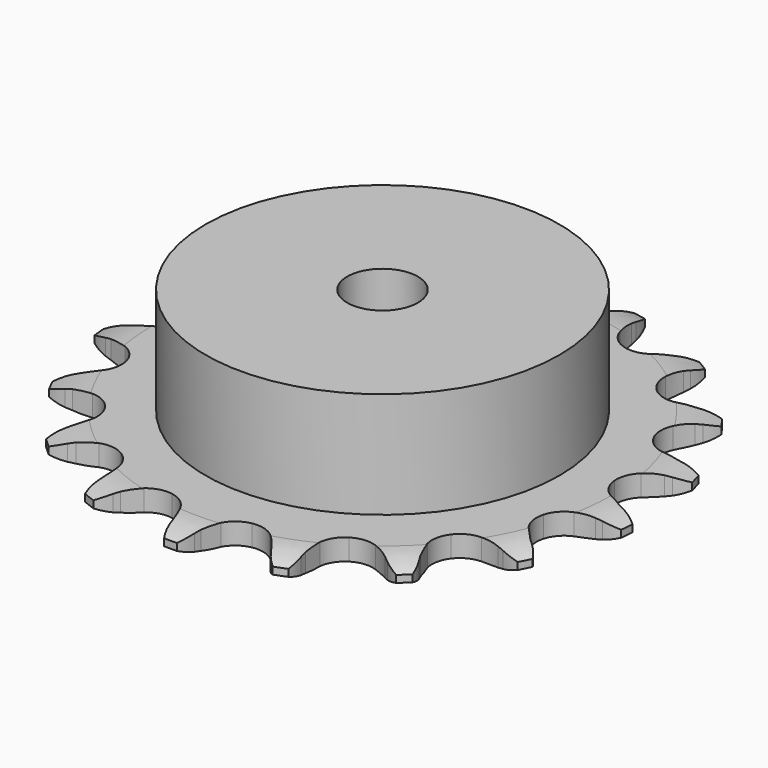
from build123d import *

# Parameters (mm, degrees)
PAD_DEPTH         = 3
SKETCH001_R       = 25
PAD001_DEPTH      = 18
SKETCH002_R       = 5
POCKET_DEPTH      = 0.001
POCKET_DEPTH_BACK = -18.001


with BuildPart() as part:
    # Sprocket → Pad (new body)
    with BuildSketch(Plane.XY):
        with BuildLine():
            ThreePointArc((-7.084855, 37.900625), (-5.741195, 36.693395), (-4.786586, 35.159919))
            Line((-4.786586, 35.159919), (-4.418937, 34.327275))
            ThreePointArc((-4.418937, 34.327275), (-3.818923, 33.174659), (-3.07633, 32.108311))
            ThreePointArc((-3.07633, 32.108311), (-1.707536, 31.015502), (0, 30.625439))
            ThreePointArc((0, 30.625439), (1.707536, 31.015502), (3.07633, 32.108311))
            ThreePointArc((3.07633, 32.108311), (3.818923, 33.174659), (4.418937, 34.327275))
            Line((4.418937, 34.327275), (4.786586, 35.159919))
            ThreePointArc((4.786586, 35.159919), (5.741195, 36.693395), (7.084855, 37.900625))
            ThreePointArc((7.084855, 37.900625), (7.901678, 36.289531), (8.23787, 34.514763))
            Line((8.23787, 34.514763), (8.279906, 33.605535))
            ThreePointArc((8.279906, 33.605535), (8.423029, 32.314002), (8.730268, 31.051407))
            ThreePointArc((8.730268, 31.051407), (9.611862, 29.537928), (11.063185, 28.557371))
            ThreePointArc((11.063185, 28.557371), (12.796322, 28.304261), (14.467452, 28.82881))
            Line((14.467452, 28.82881), (16.520978, 30.412927))
            ThreePointArc((16.520978, 30.412927), (16.835552, 30.741961), (17.164586, 31.056534))
            ThreePointArc((17.164586, 31.056534), (18.608688, 32.141613), (20.297715, 32.781936))
            ThreePointArc((20.297715, 32.781936), (20.477386, 30.984564), (20.149755, 29.208196))
            Line((20.149755, 29.208196), (19.860502, 28.345181))
            ThreePointArc((19.860502, 28.345181), (19.527405, 27.089161), (19.357794, 25.800838))
            ThreePointArc((19.357794, 25.800838), (19.633124, 24.071092), (20.632225, 22.632472))
            ThreePointArc((20.632225, 22.632472), (22.156893, 21.770373), (23.904665, 21.655818))
            Line((23.904665, 21.655818), (26.39177, 22.391144))
            ThreePointArc((26.39177, 22.391144), (26.803962, 22.584322), (27.224414, 22.758792))
            ThreePointArc((27.224414, 22.758792), (28.962975, 23.248928), (30.769257, 23.235864))
            ThreePointArc((30.769257, 23.235864), (30.287509, 21.494961), (29.340304, 19.9569))
            Line((29.340304, 19.9569), (28.758827, 19.256654))
            ThreePointArc((28.758827, 19.256654), (27.994496, 18.205778), (27.370943, 17.065723))
            ThreePointArc((27.370943, 17.065723), (27.002825, 15.353322), (27.414769, 13.650933))
            ThreePointArc((27.414769, 13.650933), (28.525053, 12.296275), (30.11342, 11.558088))
            Line((30.11342, 11.558088), (32.698207, 11.345313))
            ThreePointArc((32.698207, 11.345313), (33.152348, 11.376545), (33.607434, 11.387349))
            ThreePointArc((33.607434, 11.387349), (35.405651, 11.216346), (37.08524, 10.55166))
            ThreePointArc((37.08524, 10.55166), (36.007137, 9.102344), (34.568283, 8.010315))
            Line((34.568283, 8.010315), (33.773113, 7.567408))
            ThreePointArc((33.773113, 7.567408), (32.680776, 6.863604), (31.687495, 6.025788))
            ThreePointArc((31.687495, 6.025788), (30.725644, 4.562001), (30.494796, 2.825759))
            ThreePointArc((30.494796, 2.825759), (31.040747, 1.161498), (32.255191, -0.100626))
            Line((32.255191, -0.100626), (34.588569, -1.232766))
            ThreePointArc((34.588569, -1.232766), (35.023326, -1.367697), (35.451584, -1.522019))
            ThreePointArc((35.451584, -1.522019), (37.066598, -2.331065), (38.392656, -3.557603))
            ThreePointArc((38.392656, -3.557603), (36.863801, -4.519595), (35.127623, -5.018108))
            Line((35.127623, -5.018108), (34.226153, -5.143858))
            ThreePointArc((34.226153, -5.143858), (32.953335, -5.405538), (31.724475, -5.827963))
            ThreePointArc((31.724475, -5.827963), (30.298795, -6.845443), (29.456332, -8.381049))
            ThreePointArc((29.456332, -8.381049), (29.364216, -10.130147), (30.040719, -11.745749))
            Line((30.040719, -11.745749), (31.807554, -13.644352))
            ThreePointArc((31.807554, -13.644352), (32.16421, -13.927224), (32.507801, -14.225829))
            ThreePointArc((32.507801, -14.225829), (33.721495, -15.563653), (34.514931, -17.186393))
            ThreePointArc((34.514931, -17.186393), (32.741804, -17.531138), (30.942784, -17.368807))
            Line((30.942784, -17.368807), (30.056762, -17.160417))
            ThreePointArc((30.056762, -17.160417), (28.775365, -16.944632), (27.476888, -16.894616))
            ThreePointArc((27.476888, -16.894616), (25.779925, -17.328373), (24.439628, -18.45595))
            ThreePointArc((24.439628, -18.45595), (23.721885, -20.053659), (23.769082, -21.804545))
            Line((23.769082, -21.804545), (24.730752, -24.213193))
            ThreePointArc((24.730752, -24.213193), (24.961139, -24.605802), (25.173659, -25.008363))
            ThreePointArc((25.173659, -25.008363), (25.822118, -26.694283), (25.975773, -28.494066))
            ThreePointArc((25.975773, -28.494066), (24.197846, -28.175003), (22.57895, -27.373753))
            Line((22.57895, -27.373753), (21.828038, -26.859367))
            ThreePointArc((21.828038, -26.859367), (20.711121, -26.195259), (19.518396, -25.679557))
            ThreePointArc((19.518396, -25.679557), (17.779334, -25.47101), (16.122216, -26.038273))
            ThreePointArc((16.122216, -26.038273), (14.875782, -27.268813), (14.287299, -28.918515))
            Line((14.287299, -28.918515), (14.313926, -31.511908))
            ThreePointArc((14.313926, -31.511908), (14.386928, -31.961231), (14.439675, -32.413379))
            ThreePointArc((14.439675, -32.413379), (14.435321, -34.219703), (13.928443, -35.953456))
            ThreePointArc((13.928443, -35.953456), (12.385834, -35.013678), (11.165703, -33.681722))
            Line((11.165703, -33.681722), (10.651317, -32.930811))
            ThreePointArc((10.651317, -32.930811), (9.849726, -31.908072), (8.923836, -30.996332))
            ThreePointArc((8.923836, -30.996332), (7.377545, -30.173645), (5.62741, -30.103983))
            ThreePointArc((5.62741, -30.103983), (4.020622, -30.801163), (2.875937, -32.12688))
            Line((2.875937, -32.12688), (1.963924, -34.554766))
            ThreePointArc((1.963924, -34.554766), (1.869682, -35.000118), (1.755533, -35.440788))
            ThreePointArc((1.755533, -35.440788), (1.098953, -37.123562), (0, -38.557134))
            ThreePointArc((0, -38.557134), (-1.098953, -37.123562), (-1.755533, -35.440788))
            Line((-1.755533, -35.440788), (-1.963924, -34.554766))
            ThreePointArc((-1.963924, -34.554766), (-2.341929, -33.311522), (-2.875937, -32.12688))
            ThreePointArc((-2.875937, -32.12688), (-4.020622, -30.801163), (-5.62741, -30.103983))
            ThreePointArc((-5.62741, -30.103983), (-7.377545, -30.173645), (-8.923836, -30.996332))
            Line((-8.923836, -30.996332), (-10.651317, -32.930811))
            ThreePointArc((-10.651317, -32.930811), (-10.900074, -33.312045), (-11.165703, -33.681722))
            ThreePointArc((-11.165703, -33.681722), (-12.385834, -35.013678), (-13.928443, -35.953456))
            ThreePointArc((-13.928443, -35.953456), (-14.435321, -34.219703), (-14.439675, -32.413379))
            Line((-14.439675, -32.413379), (-14.313926, -31.511908))
            ThreePointArc((-14.313926, -31.511908), (-14.217293, -30.216067), (-14.287299, -28.918515))
            ThreePointArc((-14.287299, -28.918515), (-14.875782, -27.268813), (-16.122216, -26.038273))
            ThreePointArc((-16.122216, -26.038273), (-17.779334, -25.47101), (-19.518396, -25.679557))
            Line((-19.518396, -25.679557), (-21.828038, -26.859367))
            ThreePointArc((-21.828038, -26.859367), (-22.197715, -27.124996), (-22.57895, -27.373753))
            ThreePointArc((-22.57895, -27.373753), (-24.197846, -28.175003), (-25.975773, -28.494066))
            ThreePointArc((-25.975773, -28.494066), (-25.822118, -26.694283), (-25.173659, -25.008363))
            Line((-25.173659, -25.008363), (-24.730752, -24.213193))
            ThreePointArc((-24.730752, -24.213193), (-24.172534, -23.039765), (-23.769082, -21.804545))
            ThreePointArc((-23.769082, -21.804545), (-23.721885, -20.053659), (-24.439628, -18.45595))
            ThreePointArc((-24.439628, -18.45595), (-25.779925, -17.328373), (-27.476888, -16.894616))
            Line((-27.476888, -16.894616), (-30.056762, -17.160417))
            ThreePointArc((-30.056762, -17.160417), (-30.497432, -17.274566), (-30.942784, -17.368807))
            ThreePointArc((-30.942784, -17.368807), (-32.741804, -17.531138), (-34.514931, -17.186393))
            ThreePointArc((-34.514931, -17.186393), (-33.721495, -15.563653), (-32.507801, -14.225829))
            Line((-32.507801, -14.225829), (-31.807554, -13.644352))
            ThreePointArc((-31.807554, -13.644352), (-30.86314, -12.751814), (-30.040719, -11.745749))
            ThreePointArc((-30.040719, -11.745749), (-29.364216, -10.130147), (-29.456332, -8.381049))
            ThreePointArc((-29.456332, -8.381049), (-30.298795, -6.845443), (-31.724475, -5.827963))
            Line((-31.724475, -5.827963), (-34.226153, -5.143858))
            ThreePointArc((-34.226153, -5.143858), (-34.678301, -5.09111), (-35.127623, -5.018108))
            ThreePointArc((-35.127623, -5.018108), (-36.863801, -4.519595), (-38.392656, -3.557603))
            ThreePointArc((-38.392656, -3.557603), (-37.066598, -2.331065), (-35.451584, -1.522019))
            Line((-35.451584, -1.522019), (-34.588569, -1.232766))
            ThreePointArc((-34.588569, -1.232766), (-33.385507, -0.741661), (-32.255191, -0.100626))
            ThreePointArc((-32.255191, -0.100626), (-31.040747, 1.161498), (-30.494796, 2.825759))
            ThreePointArc((-30.494796, 2.825759), (-30.725644, 4.562001), (-31.687495, 6.025788))
            Line((-31.687495, 6.025788), (-33.773113, 7.567408))
            ThreePointArc((-33.773113, 7.567408), (-34.175674, 7.779928), (-34.568283, 8.010315))
            ThreePointArc((-34.568283, 8.010315), (-36.007137, 9.102344), (-37.08524, 10.55166))
            ThreePointArc((-37.08524, 10.55166), (-35.405651, 11.216346), (-33.607434, 11.387349))
            Line((-33.607434, 11.387349), (-32.698207, 11.345313))
            ThreePointArc((-32.698207, 11.345313), (-31.398977, 11.368658), (-30.11342, 11.558088))
            ThreePointArc((-30.11342, 11.558088), (-28.525053, 12.296275), (-27.414769, 13.650933))
            ThreePointArc((-27.414769, 13.650933), (-27.002825, 15.353322), (-27.370943, 17.065723))
            Line((-27.370943, 17.065723), (-28.758827, 19.256654))
            ThreePointArc((-28.758827, 19.256654), (-29.057432, 19.600245), (-29.340304, 19.9569))
            ThreePointArc((-29.340304, 19.9569), (-30.287509, 21.494961), (-30.769257, 23.235864))
            ThreePointArc((-30.769257, 23.235864), (-28.962975, 23.248928), (-27.224414, 22.758792))
            Line((-27.224414, 22.758792), (-26.39177, 22.391144))
            ThreePointArc((-26.39177, 22.391144), (-25.171841, 21.943577), (-23.904665, 21.655818))
            ThreePointArc((-23.904665, 21.655818), (-22.156893, 21.770373), (-20.632225, 22.632472))
            ThreePointArc((-20.632225, 22.632472), (-19.633124, 24.071092), (-19.357794, 25.800838))
            Line((-19.357794, 25.800838), (-19.860502, 28.345181))
            ThreePointArc((-19.860502, 28.345181), (-20.014824, 28.773439), (-20.149755, 29.208196))
            ThreePointArc((-20.149755, 29.208196), (-20.477386, 30.984564), (-20.297715, 32.781936))
            ThreePointArc((-20.297715, 32.781936), (-18.608688, 32.141613), (-17.164586, 31.056534))
            Line((-17.164586, 31.056534), (-16.520978, 30.412927))
            ThreePointArc((-16.520978, 30.412927), (-15.545109, 29.554894), (-14.467452, 28.82881))
            ThreePointArc((-14.467452, 28.82881), (-12.796322, 28.304261), (-11.063185, 28.557371))
            ThreePointArc((-11.063185, 28.557371), (-9.611862, 29.537928), (-8.730268, 31.051407))
            Line((-8.730268, 31.051407), (-8.279906, 33.605535))
            ThreePointArc((-8.279906, 33.605535), (-8.269102, 34.060621), (-8.23787, 34.514763))
            ThreePointArc((-8.23787, 34.514763), (-7.901678, 36.289531), (-7.084855, 37.900625))
        make_face()
    extrude(amount=PAD_DEPTH)

    # Sketch → Groove (revolve, cut)
    with BuildSketch(Plane.XZ):
        with BuildLine():
            Line((32.45, 0), (37.45, 0))
            Line((42.45, 0), (37.45, 0))
            Line((42.45, 3), (42.45, 0))
            Line((37.45, 3), (42.45, 3))
            Line((32.45, 3), (37.45, 3))
            ThreePointArc((37.45, 2), (34.99951, 2.747549), (32.45, 3))
            Line((37.45, 1), (37.45, 2))
            ThreePointArc((32.45, 0), (34.99951, 0.252451), (37.45, 1))
        make_face()
    revolve(axis=Axis((0, 0, 0), (0, 0, 1)), mode=Mode.SUBTRACT)

    # Sketch001 → Pad001 (join)
    with BuildSketch(Plane.XY):
        Circle(SKETCH001_R)
    extrude(amount=PAD001_DEPTH)

    # Sketch002 → Pocket (cut, two sides)
    with BuildSketch(Plane.XY) as pocket_sk:
        Circle(SKETCH002_R)
    extrude(amount=-POCKET_DEPTH, mode=Mode.SUBTRACT)
    extrude(pocket_sk.sketch, amount=-POCKET_DEPTH_BACK, mode=Mode.SUBTRACT)


solid = part.part
